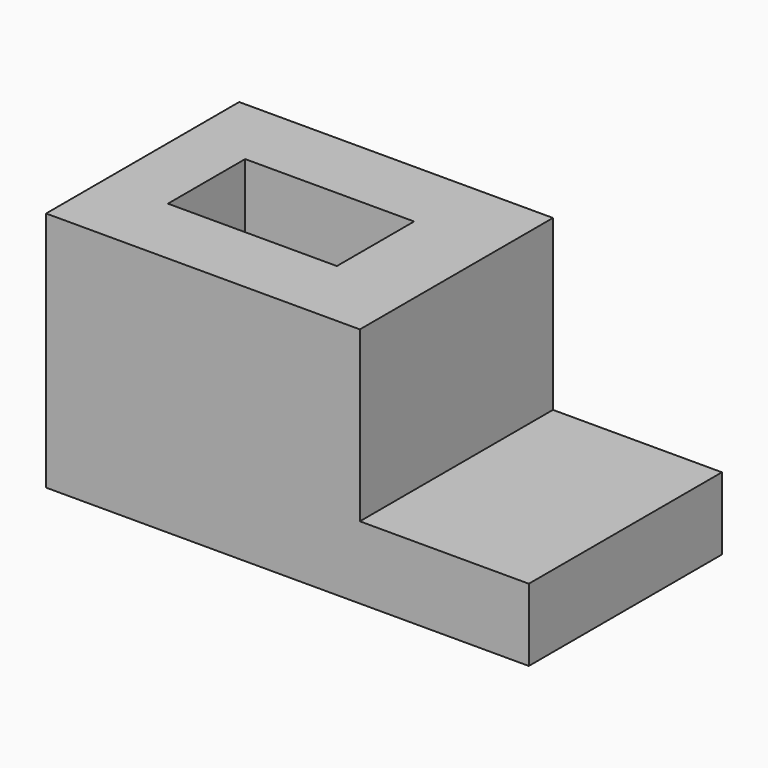
from build123d import *

# Parameters (mm, degrees)
F0_W     = 82.55
F0_H     = 63.5
F0_W_2   = 44.45
F0_H_2   = 25.4
F2_DEPTH = 63.5
F1_W     = 44.45
F1_H     = 63.5
F3_DEPTH = 19.05


with BuildPart() as f2:
    # F0 (on Top) → F2 (new body)
    with BuildSketch(Plane.XY):
        with Locations((-41.275, 31.75)):
            Rectangle(F0_W, F0_H)
        with Locations((-43.513253, 31.75)):
            Rectangle(F0_W_2, F0_H_2, mode=Mode.SUBTRACT)
    extrude(amount=F2_DEPTH)

    # F1 (on Top) → F3 (join)
    with BuildSketch(Plane.XY):
        with Locations((22.225, 31.75)):
            Rectangle(F1_W, F1_H)
    extrude(amount=F3_DEPTH)


solid = f2.part
